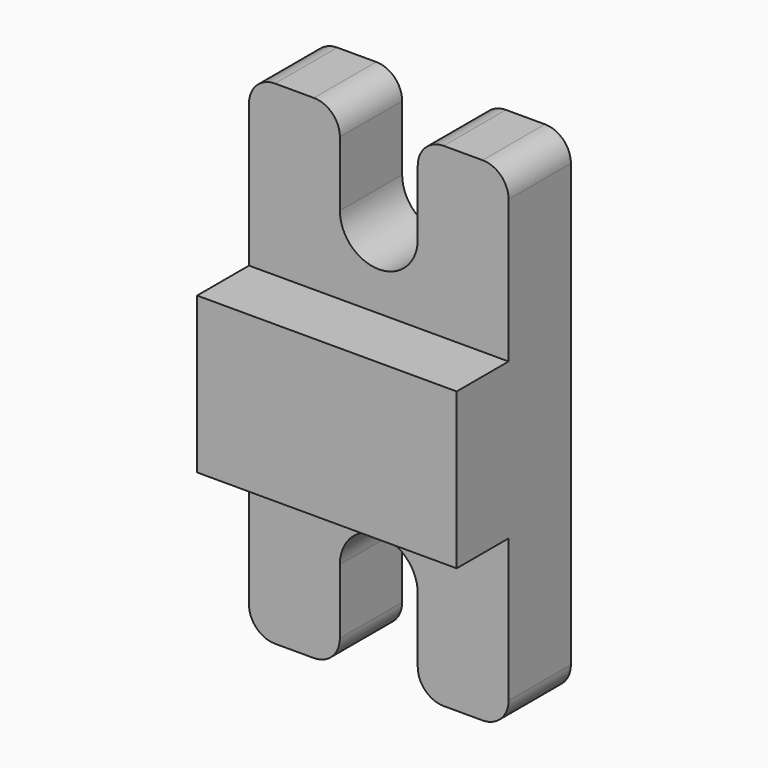
from build123d import *

# Parameters (mm, degrees)
F0_W     = 10
F0_H     = 6
F1_DEPTH = 5.5
F2_DEPTH = 3


with BuildPart() as f1:
    # F0 (on Front) → F1 (new body)
    with BuildSketch(Plane.XZ):
        with Locations((5, 9.5)):
            Rectangle(F0_W, F0_H)
    extrude(amount=F1_DEPTH)

    # F0 (on Front) → F2 (join)
    with BuildSketch(Plane.XZ):
        with BuildLine():
            Line((0, 18), (0, 12.5))
            Line((0, 12.5), (10, 12.5))
            Line((10, 12.5), (10, 18))
            ThreePointArc((10, 18), (9.707107, 18.707107), (9, 19))
            Line((9, 19), (7.5, 19))
            ThreePointArc((7.5, 19), (6.792893, 18.707107), (6.5, 18))
            Line((6.5, 18), (6.5, 15.5))
            ThreePointArc((6.5, 15.5), (5, 14), (3.5, 15.5))
            Line((3.5, 15.5), (3.5, 18))
            ThreePointArc((3.5, 18), (3.207107, 18.707107), (2.5, 19))
            Line((2.5, 19), (1, 19))
            ThreePointArc((1, 19), (0.292893, 18.707107), (0, 18))
        make_face()
        with BuildLine():
            ThreePointArc((0, 1), (0.292893, 0.292893), (1, 0))
            Line((1, 0), (2.5, 0))
            ThreePointArc((2.5, 0), (3.207107, 0.292893), (3.5, 1))
            Line((3.5, 1), (3.5, 3.5))
            ThreePointArc((3.5, 3.5), (5, 5), (6.5, 3.5))
            Line((6.5, 3.5), (6.5, 1))
            ThreePointArc((6.5, 1), (6.792893, 0.292893), (7.5, 0))
            Line((7.5, 0), (9, 0))
            ThreePointArc((9, 0), (9.707107, 0.292893), (10, 1))
            Line((10, 1), (10, 6.5))
            Line((10, 6.5), (0, 6.5))
            Line((0, 6.5), (0, 1))
        make_face()
    extrude(amount=F2_DEPTH)


solid = f1.part
